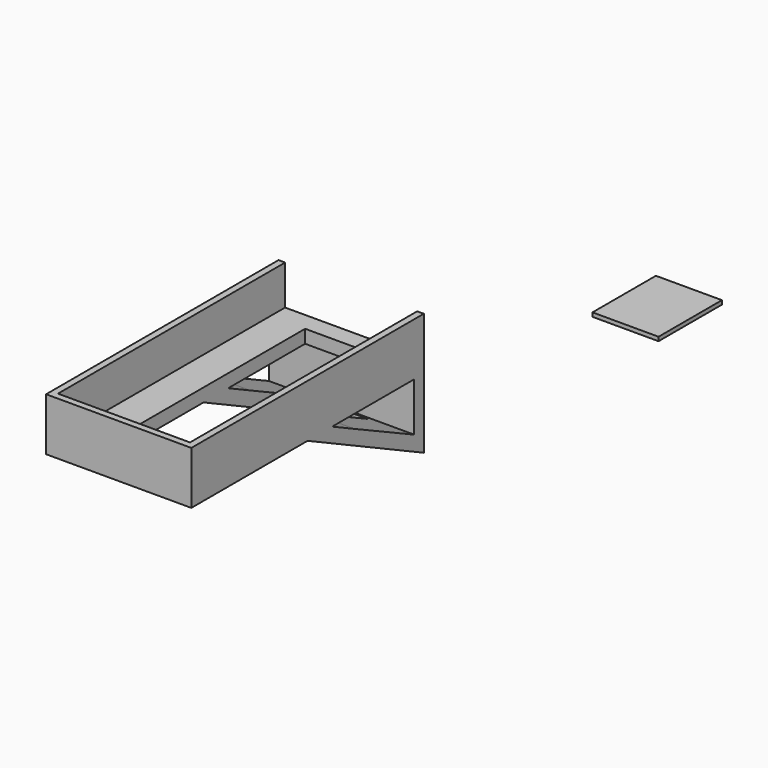
from build123d import *

# Parameters (mm, degrees)
F0_W      = 55
F0_H      = 5
F1_DEPTH  = 110
F3_DEPTH  = 55
F5_DEPTH  = 15
F4_W      = 23.761057
F4_H      = 100.577244
F6_DEPTH  = 31.332726
F8_DEPTH  = 55.001
F9_W      = 30
F9_H      = 1.5
F10_DEPTH = 25


with BuildPart() as f1:
    # F0 (on Front) → F1 (new body)
    with BuildSketch(Plane.XZ):
        with Locations((-42.091317, 28.831726)):
            Rectangle(F0_W, F0_H)
    extrude(amount=F1_DEPTH)

    # F2 (on face) → F3 (join, through all)
    with BuildSketch(Plane(origin=(-69.591317, 0, 0), x_dir=(0, -1, 0), z_dir=(-1, 0, 0))):
        Polygon((55, 26.331726), (0, 26.331726), (0, 0), align=None)
    extrude(amount=-F3_DEPTH)

    # F4 (on face) → F5 (join)
    with BuildSketch(Plane.XY.offset(31.331726)):
        Polygon((-67.091317, -107.5), (-67.091317, 0), (-69.591317, 0), (-69.591317, -110), (-14.591317, -110), (-14.591317, 0), (-17.091317, 0), (-17.091317, -107.5), (-30.210789, -107.5), (-53.971846, -107.5), align=None)
    extrude(amount=F5_DEPTH)

    # F4 (on face) → F6 (cut, through all)
    with BuildSketch(Plane.XY.offset(31.331726)):
        with Locations((-42.091318, -57.211378)):
            Rectangle(F4_W, F4_H)
    extrude(amount=-F6_DEPTH, mode=Mode.SUBTRACT)

    # F7 (on face) → F8 (cut, through all)
    with BuildSketch(Plane(origin=(-69.591317, 0, 0), x_dir=(0, -1, 0), z_dir=(-1, 0, 0))):
        Polygon((32.814439, 21.294716), (43.335418, 26.331726), (4.517639, 26.331726), (4.517639, 21.294716), (4.517639, 7.869426), align=None)
    extrude(amount=-F8_DEPTH, mode=Mode.SUBTRACT)


with BuildPart() as f10:
    # F9 (on Right) → F10 (new body)
    with BuildSketch(Plane.YZ):
        with Locations((76.623397, 25.743366)):
            Rectangle(F9_W, F9_H)
    extrude(amount=F10_DEPTH)


solid = Compound([f1.part, f10.part])
